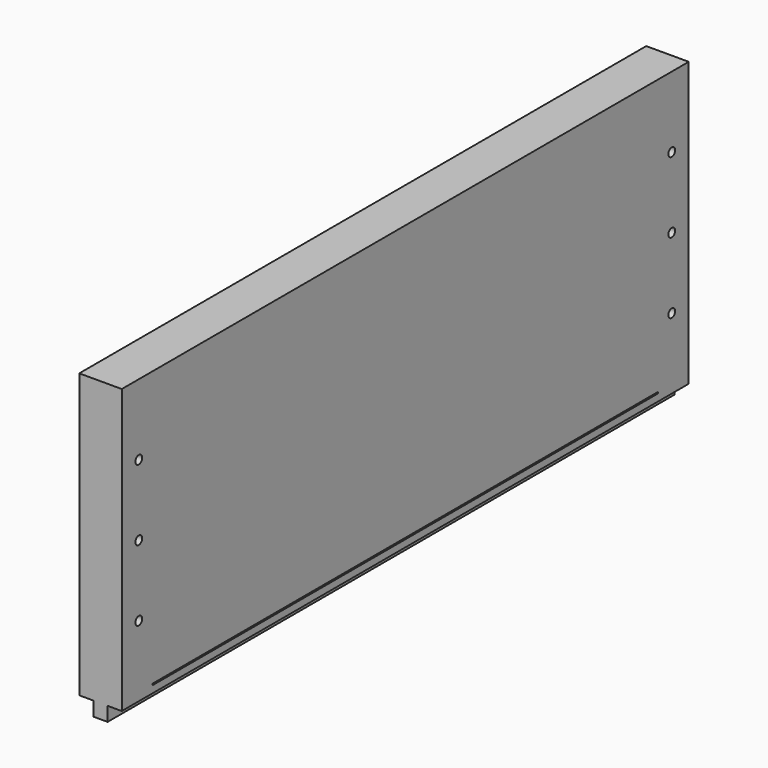
from build123d import *

# Parameters (mm, degrees)
F0_W     = 500
F0_H     = 200
F0_R     = 3
F1_DEPTH = 30
F2_W     = 10
F2_H     = 10
F3_DEPTH = 500
F5_START = -27
F4_W     = 30
F4_H     = 1
F5_DEPTH = 446


with BuildPart() as f1:
    # F0 (on Right) → F1 (new body)
    with BuildSketch(Plane.YZ):
        Rectangle(F0_W, F0_H)
        with Locations((-235, -50)):
            Circle(F0_R, mode=Mode.SUBTRACT)
        with Locations((235, -50)):
            Circle(F0_R, mode=Mode.SUBTRACT)
        with Locations((-235, 0)):
            Circle(F0_R, mode=Mode.SUBTRACT)
        with Locations((-235, 50)):
            Circle(F0_R, mode=Mode.SUBTRACT)
        with Locations((235, 0)):
            Circle(F0_R, mode=Mode.SUBTRACT)
        with Locations((235, 50)):
            Circle(F0_R, mode=Mode.SUBTRACT)
    extrude(amount=F1_DEPTH)

    # F2 (on face) → F3 (join)
    with BuildSketch(Plane.XZ.offset(250)):
        with Locations((15, -105)):
            Rectangle(F2_W, F2_H)
    extrude(amount=-F3_DEPTH)

    # F4 (on face) → F5 (cut)
    with BuildSketch(Plane.XZ.offset(250).offset(F5_START)):
        with Locations((15, -94.5)):
            Rectangle(F4_W, F4_H)
    extrude(amount=-F5_DEPTH, mode=Mode.SUBTRACT)


solid = f1.part
